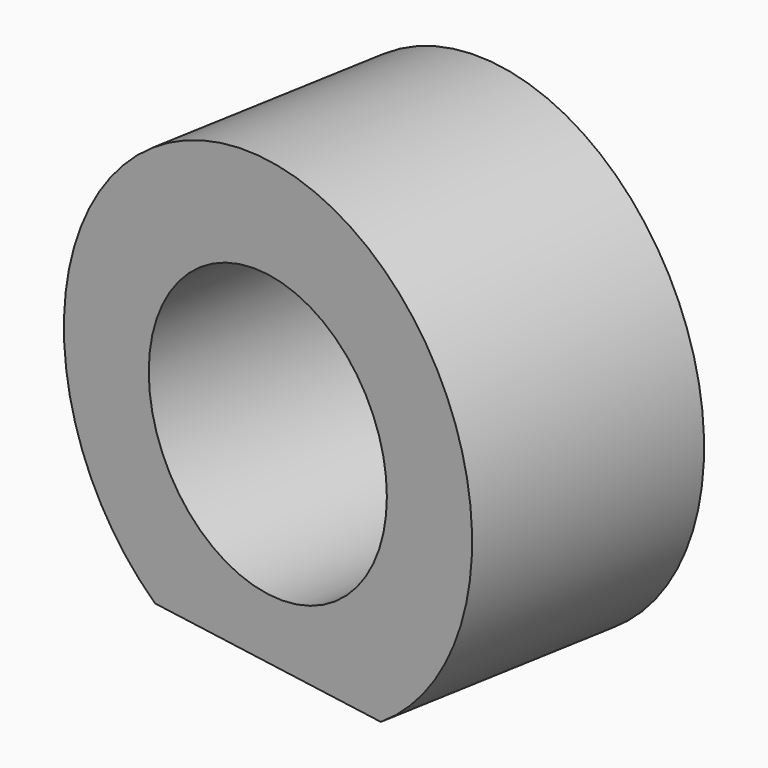
from build123d import *

# Parameters (mm, degrees)
PAD012_DEPTH                = 3
CYLINDER047_R               = 1.75
CYLINDER047_DEPTH           = 18
CYLINDER047_ROLL_ANGLE      = -89.999776
CYLINDER047_PITCH_ANGLE     = 1.4e-05
CYLINDER047_PLACEMENT_ANGLE = -9.999925
CYLINDER042_R               = 3
CYLINDER042_DEPTH           = 3
CYLINDER042_ROLL_ANGLE      = -89.999776
CYLINDER042_PITCH_ANGLE     = 1.4e-05
CYLINDER042_PLACEMENT_ANGLE = -9.999925


with BuildPart() as obj1:
    # Sketch012 → Pad012 (new body)
    with BuildSketch(Plane.XY):
        with BuildLine():
            add(Edge.make_bspline(
                [(44.997663, -28.408983), (45.245046, -6.764399), (28.5, -0.316434)],
                knots=[1.556693, 1.556693, 1.556693, 2.83913, 2.83913, 2.83913], degree=2, weights=[1, 0.801368, 1]))
            Line((28.5, -0.316434), (28.5, -25.5))
            Line((28.5, -25.5), (44.997663, -28.408983))
        make_face()
    extrude(amount=PAD012_DEPTH)


with BuildPart() as obj1_1:
    # Body014 placement: moved
    add(obj1.part.moved(Location((0, 0, 2))))


with BuildPart() as cylinder047:
    # Cylinder047 → Cylinder047 (new body)
    with BuildSketch(Plane.XY):
        Circle(CYLINDER047_R)
    extrude(amount=CYLINDER047_DEPTH)


with BuildPart() as cylinder047_1:
    # Cylinder047 roll: moved
    add(cylinder047.part.rotate(Axis((0, 0, 0), (1, 0, 0)), CYLINDER047_ROLL_ANGLE))


with BuildPart() as cylinder047_2:
    # Cylinder047 pitch: moved
    add(cylinder047_1.part.rotate(Axis((0, 0, 0), (0, 1, 0)), CYLINDER047_PITCH_ANGLE))


with BuildPart() as cylinder047_3:
    # Cylinder047 placement: moved
    add(cylinder047_2.part.moved(Location((32.055183, -23.766017, 7.500006))).rotate(Axis((32.055183, -23.766017, 7.500006), (0, 0, 1)), CYLINDER047_PLACEMENT_ANGLE))


with BuildPart() as cut058:
    # Cylinder042 → Cylinder042 (new body)
    with BuildSketch(Plane.XY):
        Circle(CYLINDER042_R)
    extrude(amount=CYLINDER042_DEPTH)


with BuildPart() as cut058_1:
    # Cylinder042 roll: moved
    add(cut058.part.rotate(Axis((0, 0, 0), (1, 0, 0)), CYLINDER042_ROLL_ANGLE))


with BuildPart() as cut058_2:
    # Cylinder042 pitch: moved
    add(cut058_1.part.rotate(Axis((0, 0, 0), (0, 1, 0)), CYLINDER042_PITCH_ANGLE))


with BuildPart() as cut058_3:
    # Cylinder042 placement: moved
    add(cut058_2.part.moved(Location((34.141828, -11.94807, 7.500056))).rotate(Axis((34.141828, -11.94807, 7.500056), (0, 0, 1)), CYLINDER042_PLACEMENT_ANGLE))

    # Cut038: cut Cylinder047
    add(cylinder047_3.part, mode=Mode.SUBTRACT)

    # Cut058: cut obj1
    add(obj1_1.part, mode=Mode.SUBTRACT)


solid = cut058_3.part
